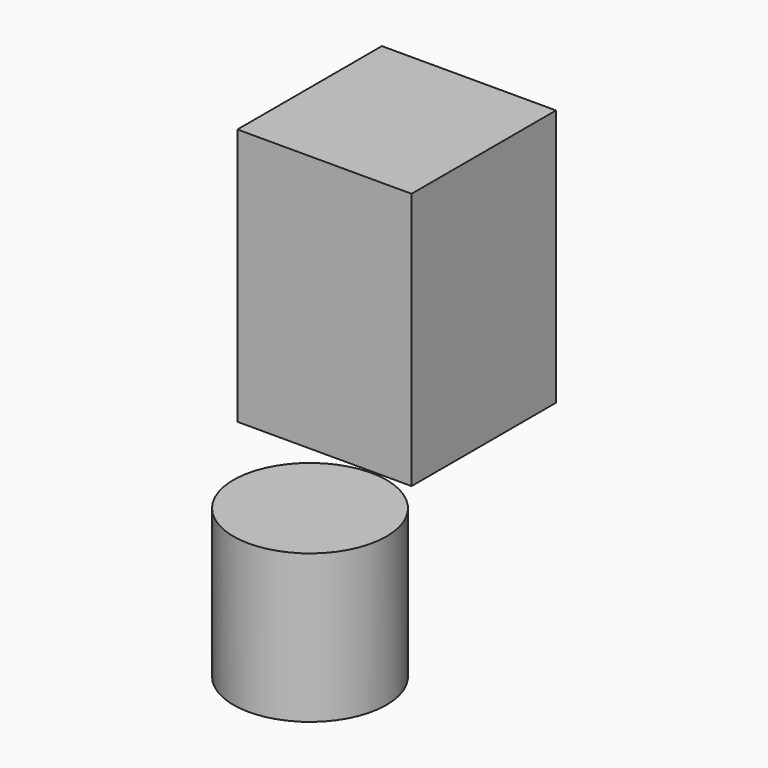
from build123d import *

# Parameters (mm, degrees)
F0_W      = 59.637699
F0_H      = 61.834071
F1_DEPTH  = 88.138
F2_R      = 26.208555
F3_DEPTH  = 25.4
F3_FACE_R = 26.208555
F4_DEPTH  = 25.4


with BuildPart() as f1:
    # F0 (on Top) → F1 (new body)
    with BuildSketch(Plane.XY):
        with Locations((-29.818849, 30.917035)):
            Rectangle(F0_W, F0_H)
    extrude(amount=F1_DEPTH)


with BuildPart() as f3:
    # F2 (on Top) → F3 (new body)
    with BuildSketch(Plane.XY):
        with Locations((47.724042, -103.13572)):
            Circle(F2_R)
    extrude(amount=F3_DEPTH)

    # F3_face (on face) → F4 (join)
    with BuildSketch(Plane(origin=(47.724042, -103.13572, 25.4), x_dir=(1, 0, 0), z_dir=(0, 0, 1))):
        Circle(F3_FACE_R)
    extrude(amount=F4_DEPTH)


solid = Compound([f1.part, f3.part])
